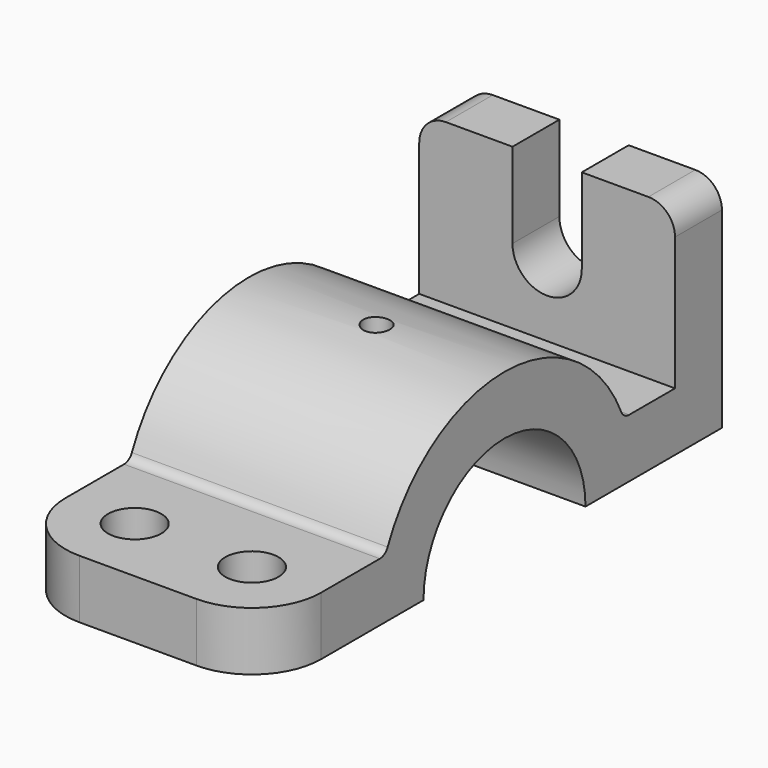
from build123d import *

# Parameters (mm, degrees)
F1_DEPTH = 24
F3_DEPTH = 20.5
F4_R     = 5
F5_R     = 13
F6_R     = 5
F7_DEPTH = 25
F8_R     = 2.5
F9_DEPTH = 38.6
F10_R    = 2


with BuildPart() as f1:
    # F0 (on Right) → F1 (new body, symmetric)
    with BuildSketch(Plane.YZ):
        with BuildLine():
            Line((-32, 0), (0, 0))
            Line((0, 0), (0, 41))
            Line((0, 41), (-11, 41))
            Line((-11, 41), (-11, 11))
            Line((-11, 11), (-23.089429, 11))
            ThreePointArc((-23.089429, 11), (-51, 30), (-78.910571, 11))
            Line((-78.910571, 11), (-107, 11))
            Line((-107, 11), (-107, 0))
            Line((-107, 0), (-70, 0))
            ThreePointArc((-70, 0), (-51, 19), (-32, 0))
        make_face()
    extrude(amount=F1_DEPTH, both=True)

    # F2 (on face) → F3 (cut)
    with BuildSketch(Plane(origin=(0, 0, 0), x_dir=(-1, 0, 0), z_dir=(0, 1, 0))):
        with BuildLine():
            ThreePointArc((-6.5, 25), (0, 18.5), (6.5, 25))
            Line((6.5, 25), (6.5, 41))
            Line((6.5, 41), (-6.5, 41))
            Line((-6.5, 41), (-6.5, 25))
        make_face()
    extrude(amount=-F3_DEPTH, mode=Mode.SUBTRACT)

    # F4
    f4_edges = [f1.edges().sort_by_distance(p)[0] for p in [
        (-24, -5.5, 41),
        (24, -5.5, 41),
    ]]
    fillet(f4_edges, radius=F4_R)

    # F5
    f5_edges = [f1.edges().sort_by_distance(p)[0] for p in [
        (-24, -107, 5.5),
        (24, -107, 5.5),
    ]]
    fillet(f5_edges, radius=F5_R)

    # F6 (on face) → F7 (cut)
    with BuildSketch(Plane.XY.offset(11)):
        with Locations((-11, -94)):
            Circle(F6_R)
        with Locations((11, -94)):
            Circle(F6_R)
    extrude(amount=-F7_DEPTH, mode=Mode.SUBTRACT)

    # F8 (on Top) → F9 (cut)
    with BuildSketch(Plane.XY):
        with Locations((0, -51)):
            Circle(F8_R)
    extrude(amount=F9_DEPTH, mode=Mode.SUBTRACT)

    # F10
    f10_edges = [f1.edges().sort_by_distance(p)[0] for p in [
        (0, -78.910571, 11),
        (0, -23.089429, 11),
    ]]
    fillet(f10_edges, radius=F10_R)


solid = f1.part
